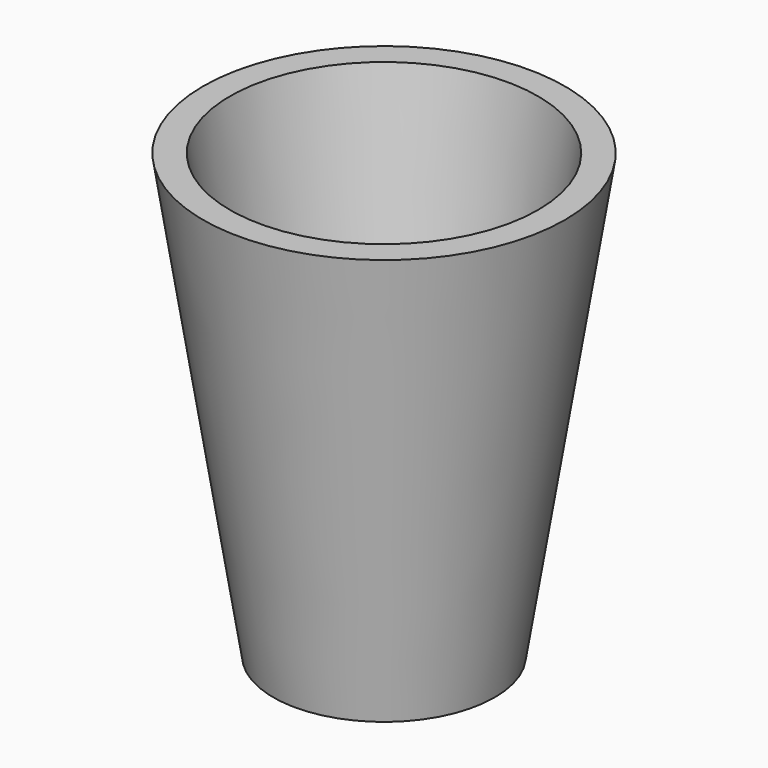
from build123d import *

# Parameters (mm, degrees)
F0_R     = 31.75
F1_DEPTH = 127
F1_TAPER = -9
F2_T     = -7.62


with BuildPart() as f1:
    # F0 (on Top) → F1 (new body)
    with BuildSketch(Plane.XY):
        Circle(F0_R)
    extrude(amount=F1_DEPTH, taper=F1_TAPER)

    # F2
    f2_openings = [f1.faces().sort_by_distance(p)[0] for p in [
        (0, 0, 127),
    ]]
    offset(amount=F2_T, openings=f2_openings, kind=Kind.INTERSECTION)


solid = f1.part
